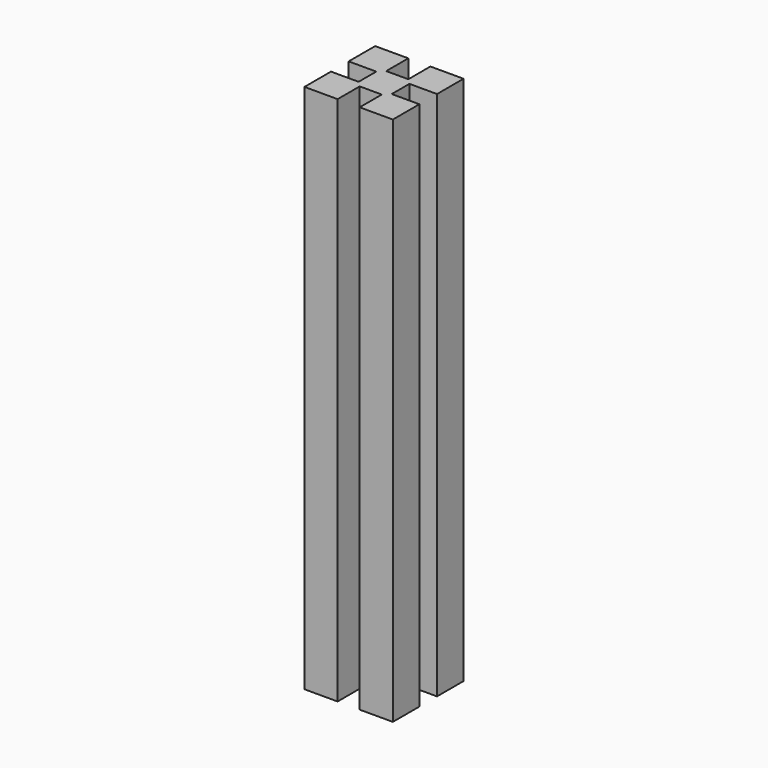
from build123d import *

# Parameters (mm, degrees)
PAD_DEPTH = 240


with BuildPart() as part:
    # Sketch → Pad (new body)
    with BuildSketch(Plane.XY):
        Polygon((-20, -20), (-20, -5), (-7.5, -5), (-7.5, 5), (-20, 5), (-20, 20), (-5, 20), (-5, 7.5), (5, 7.5), (5, 20), (20, 20), (20, 5), (7.5, 5), (7.5, -5), (20, -5), (20, -20), (5, -20), (5, -7.5), (-5, -7.5), (-5, -20), align=None)
    extrude(amount=PAD_DEPTH)


solid = part.part
